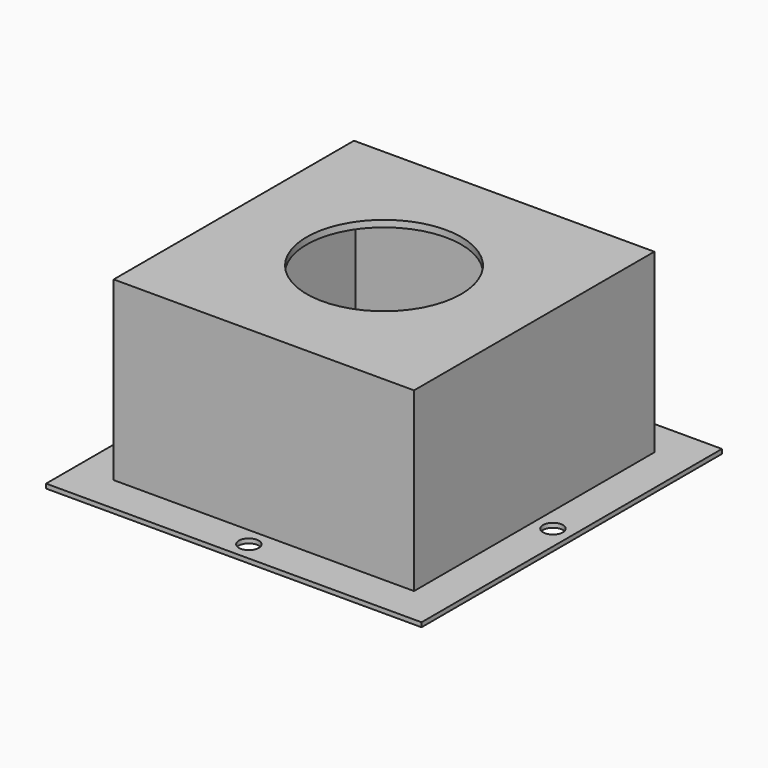
from build123d import *

# Parameters (mm, degrees)
F0_W     = 170
F0_H     = 170
F0_W_2   = 130
F0_H_2   = 130
F1_DEPTH = 2
F2_W     = 136
F2_H     = 136
F3_DEPTH = 80
F4_W     = 130
F4_H     = 130
F5_DEPTH = 77
F6_R     = 35
F7_DEPTH = 82.001
F8_R     = 4.5
F9_DEPTH = 2.001


with BuildPart() as f1:
    # F0 (on Top) → F1 (new body)
    with BuildSketch(Plane.XY):
        Rectangle(F0_W, F0_H)
        Rectangle(F0_W_2, F0_H_2, mode=Mode.SUBTRACT)
    extrude(amount=F1_DEPTH)

    # F2 (on face) → F3 (join)
    with BuildSketch(Plane.XY.offset(2)):
        Rectangle(F2_W, F2_H)
    extrude(amount=F3_DEPTH)

    # F4 (on face) → F5 (cut)
    with BuildSketch(Plane(origin=(0, 0, 2), x_dir=(1, 0, 0), z_dir=(0, 0, -1))):
        Rectangle(F4_W, F4_H)
    extrude(amount=-F5_DEPTH, mode=Mode.SUBTRACT)

    # F6 (on face) → F7 (cut, through all)
    with BuildSketch(Plane.XY.offset(82)):
        Circle(F6_R)
    extrude(amount=-F7_DEPTH, mode=Mode.SUBTRACT)

    # F8 (on face) → F9 (cut, through all)
    with BuildSketch(Plane.XY.offset(2)):
        with Locations((0, 76.5)):
            Circle(F8_R)
        with Locations((-76.5, 0)):
            Circle(F8_R)
        with Locations((76.5, 0)):
            Circle(F8_R)
        with Locations((0, -76.5)):
            Circle(F8_R)
    extrude(amount=-F9_DEPTH, mode=Mode.SUBTRACT)


solid = f1.part
